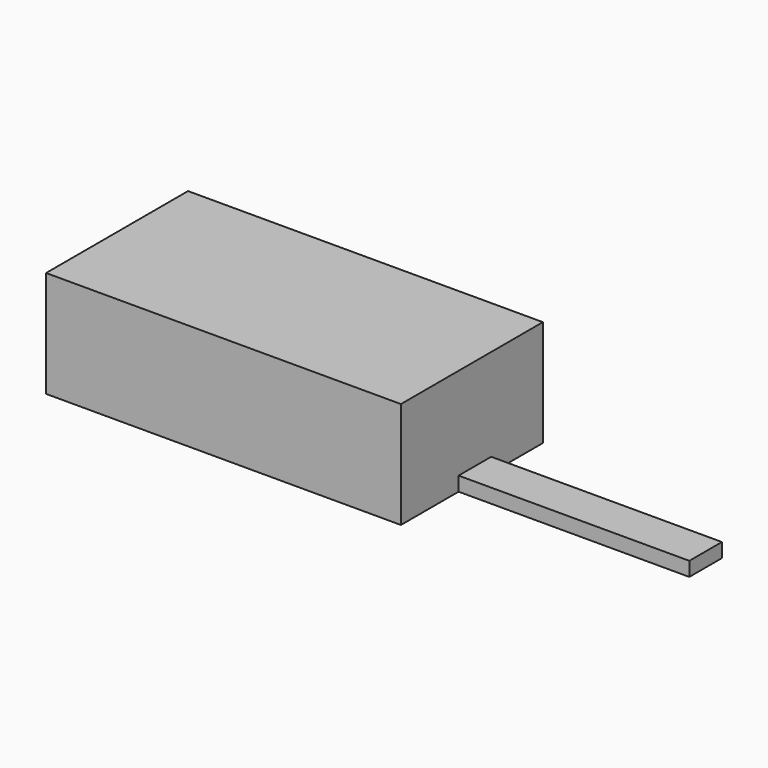
from build123d import *

# Parameters (mm, degrees)
F0_W     = 31.75
F0_H     = 9.525
F1_DEPTH = 15.875
F2_W     = 20.683862
F2_H     = 3.645592
F3_DEPTH = 1.27


with BuildPart() as f1:
    # F0 (on Front) → F1 (new body)
    with BuildSketch(Plane.XZ):
        with Locations((15.875, 4.7625)):
            Rectangle(F0_W, F0_H)
    extrude(amount=F1_DEPTH)

    # F2 (on Top) → F3 (join)
    with BuildSketch(Plane.XY):
        with Locations((42.053569, -7.60292)):
            Rectangle(F2_W, F2_H)
    extrude(amount=F3_DEPTH)


solid = f1.part
